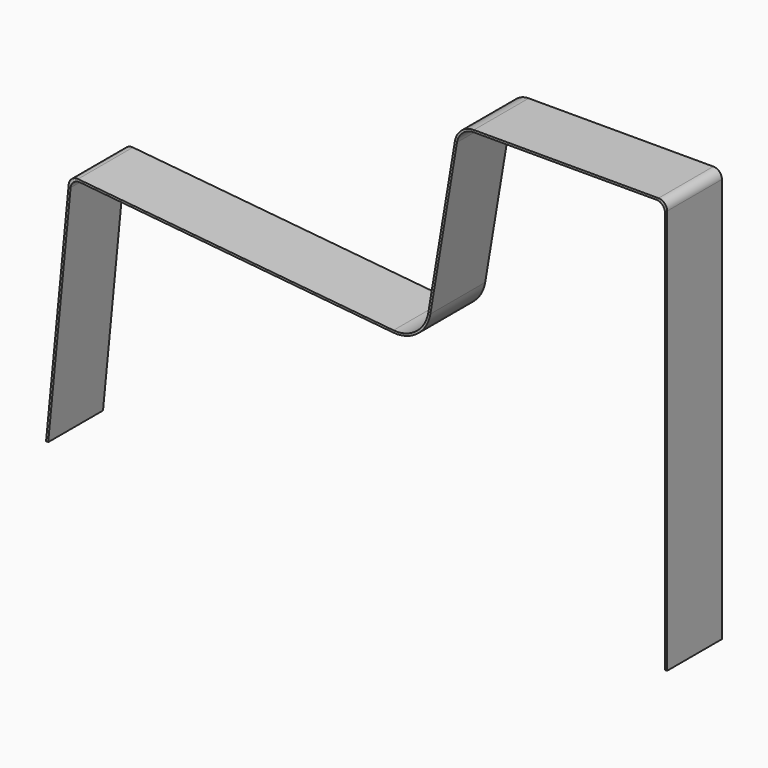
from build123d import *

# Parameters (mm, degrees)
F1_DEPTH      = 25.4
F1_DEPTH_BACK = 25.4


with BuildPart() as f1:
    # F0 (on Front) → F1 (new body, two sides)
    with BuildSketch(Plane.XZ) as f1_sk:
        with BuildLine():
            Line((-1.567784, 0.148523), (0, 0))
            Line((0, 0), (16.613301, 171.479593))
            ThreePointArc((16.613301, 171.479593), (18.897491, 175.769447), (23.546043, 177.187666))
            Line((23.546043, 177.187666), (255.795056, 154.686896))
            ThreePointArc((255.795056, 154.686896), (273.707639, 159.817892), (283.298798, 175.792791))
            Line((283.298798, 175.792791), (303.031311, 294.187867))
            ThreePointArc((303.031311, 294.187867), (307.349553, 301.790354), (315.558514, 304.8))
            Line((315.558514, 304.8), (450.85, 304.8))
            ThreePointArc((450.85, 304.8), (455.340128, 302.940128), (457.2, 298.45))
            Line((457.2, 298.45), (457.2, 0))
            Line((457.2, 0), (458.7748, 0))
            Line((458.7748, 0), (458.7748, 300.0248))
            ThreePointArc((458.7748, 300.0248), (456.914928, 304.514928), (452.4248, 306.3748))
            Line((452.4248, 306.3748), (315.558514, 306.3748))
            ThreePointArc((315.558514, 306.3748), (306.331642, 302.991958), (301.477938, 294.446763))
            Line((301.477938, 294.446763), (281.745425, 176.051686))
            ThreePointArc((281.745425, 176.051686), (272.748918, 161.067231), (255.946915, 156.254357))
            Line((255.946915, 156.254357), (22.13044, 178.906986))
            ThreePointArc((22.13044, 178.906986), (17.481889, 177.488767), (15.197699, 173.198913))
            Line((15.197699, 173.198913), (-1.567784, 0.148523))
        make_face()
    extrude(amount=F1_DEPTH)
    extrude(f1_sk.sketch, amount=-F1_DEPTH_BACK)


solid = f1.part
